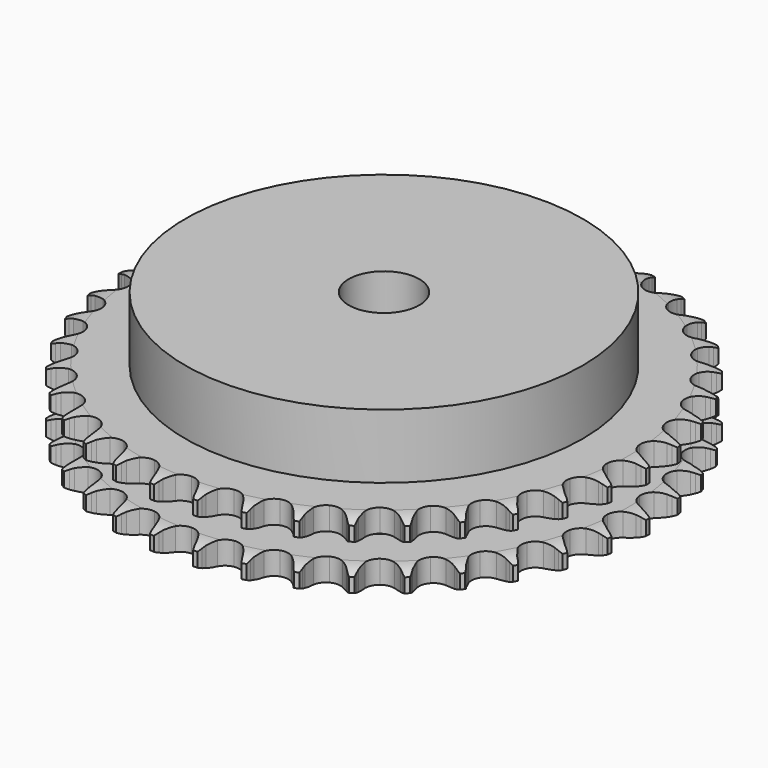
from build123d import *

# Parameters (mm, degrees)
PAD_DEPTH         = 15.4
SKETCH001_R       = 45
PAD001_DEPTH      = 30
SKETCH002_R       = 8
POCKET_DEPTH      = 0.001
POCKET_DEPTH_BACK = 30.001


with BuildPart() as part:
    # Sprocket → Pad (new body)
    with BuildSketch(Plane.XY):
        with BuildLine():
            ThreePointArc((-4.99856, 60.323644), (-4.441675, 59.555748), (-4.035521, 58.69853))
            Line((-4.035521, 58.69853), (-3.725843, 57.850122))
            ThreePointArc((-3.725843, 57.850122), (-3.235353, 56.757927), (-2.592985, 55.747564))
            ThreePointArc((-2.592985, 55.747564), (-1.45137, 54.787399), (0, 54.442831))
            ThreePointArc((0, 54.442831), (1.45137, 54.787399), (2.592985, 55.747564))
            ThreePointArc((2.592985, 55.747564), (3.235353, 56.757927), (3.725843, 57.850122))
            Line((3.725843, 57.850122), (4.035521, 58.69853))
            ThreePointArc((4.035521, 58.69853), (4.441675, 59.555748), (4.99856, 60.323644))
            ThreePointArc((4.99856, 60.323644), (5.421458, 59.474561), (5.680978, 58.562184))
            Line((5.680978, 58.562184), (5.846789, 57.674375))
            ThreePointArc((5.846789, 57.674375), (6.150821, 56.516344), (6.618128, 55.414031))
            ThreePointArc((6.618128, 55.414031), (7.586134, 54.279058), (8.960995, 53.700302))
            ThreePointArc((8.960995, 53.700302), (10.449284, 53.801282), (11.733367, 54.560448))
            Line((11.733367, 54.560448), (13.196845, 56.447868))
            ThreePointArc((13.196845, 56.447868), (13.408708, 56.846853), (13.641943, 57.233734))
            ThreePointArc((13.641943, 57.233734), (14.18365, 58.01241), (14.859331, 58.678172))
            ThreePointArc((14.859331, 58.678172), (15.136708, 57.771063), (15.242516, 56.828413))
            Line((15.242516, 56.828413), (15.259937, 55.925422))
            ThreePointArc((15.259937, 55.925422), (15.369216, 54.733143), (15.648715, 53.568948))
            ThreePointArc((15.648715, 53.568948), (16.416709, 52.290125), (17.677558, 51.492968))
            ThreePointArc((17.677558, 51.492968), (19.16217, 51.347607), (20.553694, 51.885066))
            Line((20.553694, 51.885066), (22.307871, 53.505863))
            ThreePointArc((22.307871, 53.505863), (22.582515, 53.864535), (22.876247, 54.20775))
            ThreePointArc((22.876247, 54.20775), (23.538732, 54.886644), (24.314779, 55.432112))
            ThreePointArc((24.314779, 55.432112), (24.439067, 54.491721), (24.388277, 53.544512))
            Line((24.388277, 53.544512), (24.256833, 52.650969))
            ThreePointArc((24.256833, 52.650969), (24.168379, 51.456965), (24.252445, 50.262643))
            ThreePointArc((24.252445, 50.262643), (24.799478, 48.874855), (25.911924, 47.881041))
            ThreePointArc((25.911924, 47.881041), (27.352361, 47.493304), (28.81337, 47.794394))
            Line((28.81337, 47.794394), (30.810396, 49.104358))
            ThreePointArc((30.810396, 49.104358), (31.14033, 49.412933), (31.486548, 49.70312))
            ThreePointArc((31.486548, 49.70312), (32.251739, 50.263714), (33.106983, 50.67401))
            ThreePointArc((33.106983, 50.67401), (33.074793, 49.725987), (32.86879, 48.800056))
            Line((32.86879, 48.800056), (32.592066, 47.940335))
            ThreePointArc((32.592066, 47.940335), (32.308292, 46.777174), (32.194633, 45.585305))
            ThreePointArc((32.194633, 45.585305), (32.505782, 44.126406), (33.439479, 42.963043))
            ThreePointArc((33.439479, 42.963043), (34.796452, 42.343506), (36.287092, 42.400016))
            Line((36.287092, 42.400016), (38.472494, 43.363414))
            ThreePointArc((38.472494, 43.363414), (38.848718, 43.613475), (39.237977, 43.842719))
            ThreePointArc((39.237977, 43.842719), (40.085003, 44.269721), (40.996115, 44.533652))
            ThreePointArc((40.996115, 44.533652), (40.808324, 43.603857), (40.452728, 42.724462))
            Line((40.452728, 42.724462), (40.038273, 41.922013))
            ThreePointArc((40.038273, 41.922013), (39.566919, 40.821424), (39.258635, 39.664518))
            ThreePointArc((39.258635, 39.664518), (39.325413, 38.174303), (40.054893, 36.873126))
            ThreePointArc((40.054893, 36.873126), (41.291385, 36.038688), (42.770996, 35.849077))
            Line((42.770996, 35.849077), (45.085163, 36.439629))
            ThreePointArc((45.085163, 36.439629), (45.497414, 36.624355), (45.919096, 36.786403))
            ThreePointArc((45.919096, 36.786403), (46.824852, 37.068165), (47.766979, 37.178532))
            ThreePointArc((47.766979, 37.178532), (47.428711, 36.292328), (46.933221, 35.483456))
            Line((46.933221, 35.483456), (46.39234, 34.760169))
            ThreePointArc((46.39234, 34.760169), (45.746263, 33.752173), (45.251763, 32.661787))
            ThreePointArc((45.251763, 32.661787), (45.07235, 31.180905), (45.577713, 29.777406))
            ThreePointArc((45.577713, 29.777406), (46.659998, 28.750829), (48.08822, 28.320267))
            Line((48.08822, 28.320267), (50.468026, 28.521866))
            ThreePointArc((50.468026, 28.521866), (50.90506, 28.636219), (51.347663, 28.72665))
            ThreePointArc((51.347663, 28.72665), (52.287442, 28.855486), (53.234885, 28.809279))
            ThreePointArc((53.234885, 28.809279), (52.755366, 27.990839), (52.133498, 27.274554))
            Line((52.133498, 27.274554), (51.480944, 26.650157))
            ThreePointArc((51.480944, 26.650157), (50.677769, 25.76225), (50.010542, 24.768127))
            ThreePointArc((50.010542, 24.768127), (49.58983, 23.336973), (49.857293, 21.869436))
            ThreePointArc((49.857293, 21.869436), (50.755847, 20.678722), (52.093722, 20.018955))
            Line((52.093722, 20.018955), (54.474253, 19.826101))
            ThreePointArc((54.474253, 19.826101), (54.924148, 19.86696), (55.375599, 19.883308))
            ThreePointArc((55.375599, 19.883308), (56.323766, 19.855705), (57.250682, 19.654184))
            ThreePointArc((57.250682, 19.654184), (56.642992, 18.925832), (55.911709, 18.321673))
            Line((55.911709, 18.321673), (55.165283, 17.813199))
            ThreePointArc((55.165283, 17.813199), (54.226917, 17.069599), (53.405163, 16.198858))
            ThreePointArc((53.405163, 16.198858), (52.754629, 14.85647), (52.776895, 13.364925))
            ThreePointArc((52.776895, 13.364925), (53.467209, 12.042553), (54.678243, 11.171578))
            Line((54.678243, 11.171578), (56.994564, 10.589532))
            ThreePointArc((56.994564, 10.589532), (57.445048, 10.555783), (57.893033, 10.497602))
            ThreePointArc((57.893033, 10.497602), (58.823725, 10.314311), (59.70483, 9.962974))
            ThreePointArc((59.70483, 9.962974), (58.985545, 9.344579), (58.164794, 8.869024))
            Line((58.164794, 8.869024), (57.344857, 8.490343))
            ThreePointArc((57.344857, 8.490343), (56.296896, 7.911335), (55.34303, 7.187726))
            ThreePointArc((55.34303, 7.187726), (54.480419, 5.97072), (54.256881, 4.495853))
            ThreePointArc((54.256881, 4.495853), (54.720125, 3.077895), (55.771284, 2.019469))
            Line((55.771284, 2.019469), (57.960212, 1.064108))
            ThreePointArc((57.960212, 1.064108), (58.398997, 0.956672), (58.831295, 0.825548))
            ThreePointArc((58.831295, 0.825548), (59.719126, 0.491571), (60.530385, 0))
            ThreePointArc((60.530385, 0), (59.719126, -0.491571), (58.831295, -0.825548))
            Line((58.831295, -0.825548), (57.960212, -1.064108))
            ThreePointArc((57.960212, -1.064108), (56.831243, -1.46273), (55.771284, -2.019469))
            ThreePointArc((55.771284, -2.019469), (54.720125, -3.077895), (54.256881, -4.495853))
            ThreePointArc((54.256881, -4.495853), (54.480419, -5.97072), (55.34303, -7.187726))
            Line((55.34303, -7.187726), (57.344857, -8.490343))
            ThreePointArc((57.344857, -8.490343), (57.759974, -8.668535), (58.164794, -8.869024))
            ThreePointArc((58.164794, -8.869024), (58.985545, -9.344579), (59.70483, -9.962974))
            ThreePointArc((59.70483, -9.962974), (58.823725, -10.314311), (57.893033, -10.497602))
            Line((57.893033, -10.497602), (56.994564, -10.589532))
            ThreePointArc((56.994564, -10.589532), (55.815381, -10.796895), (54.678243, -11.171578))
            ThreePointArc((54.678243, -11.171578), (53.467209, -12.042553), (52.776895, -13.364925))
            ThreePointArc((52.776895, -13.364925), (52.754629, -14.85647), (53.405163, -16.198858))
            Line((53.405163, -16.198858), (55.165283, -17.813199))
            ThreePointArc((55.165283, -17.813199), (55.54541, -18.057287), (55.911709, -18.321673))
            ThreePointArc((55.911709, -18.321673), (56.642992, -18.925832), (57.250682, -19.654184))
            ThreePointArc((57.250682, -19.654184), (56.323766, -19.855705), (55.375599, -19.883308))
            Line((55.375599, -19.883308), (54.474253, -19.826101))
            ThreePointArc((54.474253, -19.826101), (53.277022, -19.836549), (52.093722, -20.018955))
            ThreePointArc((52.093722, -20.018955), (50.755847, -20.678722), (49.857293, -21.869436))
            ThreePointArc((49.857293, -21.869436), (49.58983, -23.336973), (50.010542, -24.768127))
            Line((50.010542, -24.768127), (51.480944, -26.650157))
            ThreePointArc((51.480944, -26.650157), (51.815711, -26.953483), (52.133498, -27.274554))
            ThreePointArc((52.133498, -27.274554), (52.755366, -27.990839), (53.234885, -28.809279))
            ThreePointArc((53.234885, -28.809279), (52.287442, -28.855486), (51.347663, -28.72665))
            Line((51.347663, -28.72665), (50.468026, -28.521866))
            ThreePointArc((50.468026, -28.521866), (49.285404, -28.335114), (48.08822, -28.320267))
            ThreePointArc((48.08822, -28.320267), (46.659998, -28.750829), (45.577713, -29.777406))
            ThreePointArc((45.577713, -29.777406), (45.07235, -31.180905), (45.251763, -32.661787))
            Line((45.251763, -32.661787), (46.39234, -34.760169))
            ThreePointArc((46.39234, -34.760169), (46.672615, -35.114458), (46.933221, -35.483456))
            ThreePointArc((46.933221, -35.483456), (47.428711, -36.292328), (47.766979, -37.178532))
            ThreePointArc((47.766979, -37.178532), (46.824852, -37.068165), (45.919096, -36.786403))
            Line((45.919096, -36.786403), (45.085163, -36.439629))
            ThreePointArc((45.085163, -36.439629), (43.949409, -36.060771), (42.770996, -35.849077))
            ThreePointArc((42.770996, -35.849077), (41.291385, -36.038688), (40.054893, -36.873126))
            ThreePointArc((40.054893, -36.873126), (39.325413, -38.174303), (39.258635, -39.664518))
            Line((39.258635, -39.664518), (40.038273, -41.922013))
            ThreePointArc((40.038273, -41.922013), (40.256411, -42.317602), (40.452728, -42.724462))
            ThreePointArc((40.452728, -42.724462), (40.808324, -43.603857), (40.996115, -44.533652))
            ThreePointArc((40.996115, -44.533652), (40.085003, -44.269721), (39.237977, -43.842719))
            Line((39.237977, -43.842719), (38.472494, -43.363414))
            ThreePointArc((38.472494, -43.363414), (37.414588, -42.802784), (36.287092, -42.400016))
            ThreePointArc((36.287092, -42.400016), (34.796452, -42.343506), (33.439479, -42.963043))
            ThreePointArc((33.439479, -42.963043), (32.505782, -44.126406), (32.194633, -45.585305))
            Line((32.194633, -45.585305), (32.592066, -47.940335))
            ThreePointArc((32.592066, -47.940335), (32.742118, -48.366433), (32.86879, -48.800056))
            ThreePointArc((32.86879, -48.800056), (33.074793, -49.725987), (33.106983, -50.67401))
            ThreePointArc((33.106983, -50.67401), (32.251739, -50.263714), (31.486548, -49.70312))
            Line((31.486548, -49.70312), (30.810396, -49.104358))
            ThreePointArc((30.810396, -49.104358), (29.859195, -48.377249), (28.81337, -47.794394))
            ThreePointArc((28.81337, -47.794394), (27.352361, -47.493304), (25.911924, -47.881041))
            ThreePointArc((25.911924, -47.881041), (24.799478, -48.874855), (24.252445, -50.262643))
            Line((24.252445, -50.262643), (24.256833, -52.650969))
            ThreePointArc((24.256833, -52.650969), (24.334705, -53.095953), (24.388277, -53.544512))
            ThreePointArc((24.388277, -53.544512), (24.439067, -54.491721), (24.314779, -55.432112))
            ThreePointArc((24.314779, -55.432112), (23.538732, -54.886644), (22.876247, -54.20775))
            Line((22.876247, -54.20775), (22.307871, -53.505863))
            ThreePointArc((22.307871, -53.505863), (21.489321, -52.632108), (20.553694, -51.885066))
            ThreePointArc((20.553694, -51.885066), (19.16217, -51.347607), (17.677558, -51.492968))
            ThreePointArc((17.677558, -51.492968), (16.416709, -52.290125), (15.648715, -53.568948))
            Line((15.648715, -53.568948), (15.259937, -55.925422))
            ThreePointArc((15.259937, -55.925422), (15.263504, -56.377155), (15.242516, -56.828413))
            ThreePointArc((15.242516, -56.828413), (15.136708, -57.771063), (14.859331, -58.678172))
            ThreePointArc((14.859331, -58.678172), (14.18365, -58.01241), (13.641943, -57.233734))
            Line((13.641943, -57.233734), (13.196845, -56.447868))
            ThreePointArc((13.196845, -56.447868), (12.533275, -55.451301), (11.733367, -54.560448))
            ThreePointArc((11.733367, -54.560448), (10.449284, -53.801282), (8.960995, -53.700302))
            ThreePointArc((8.960995, -53.700302), (7.586134, -54.279058), (6.618128, -55.414031))
            Line((6.618128, -55.414031), (5.846789, -57.674375))
            ThreePointArc((5.846789, -57.674375), (5.775956, -58.120534), (5.680978, -58.562184))
            ThreePointArc((5.680978, -58.562184), (5.421458, -59.474561), (4.99856, -60.323644))
            ThreePointArc((4.99856, -60.323644), (4.441675, -59.555748), (4.035521, -58.69853))
            Line((4.035521, -58.69853), (3.725843, -57.850122))
            ThreePointArc((3.725843, -57.850122), (3.235353, -56.757927), (2.592985, -55.747564))
            ThreePointArc((2.592985, -55.747564), (1.45137, -54.787399), (0, -54.442831))
            ThreePointArc((0, -54.442831), (-1.45137, -54.787399), (-2.592985, -55.747564))
            Line((-2.592985, -55.747564), (-3.725843, -57.850122))
            ThreePointArc((-3.725843, -57.850122), (-3.869146, -58.278537), (-4.035521, -58.69853))
            ThreePointArc((-4.035521, -58.69853), (-4.441675, -59.555748), (-4.99856, -60.323644))
            ThreePointArc((-4.99856, -60.323644), (-5.421458, -59.474561), (-5.680978, -58.562184))
            Line((-5.680978, -58.562184), (-5.846789, -57.674375))
            ThreePointArc((-5.846789, -57.674375), (-6.150821, -56.516344), (-6.618128, -55.414031))
            ThreePointArc((-6.618128, -55.414031), (-7.586134, -54.279058), (-8.960995, -53.700302))
            ThreePointArc((-8.960995, -53.700302), (-10.449284, -53.801282), (-11.733367, -54.560448))
            Line((-11.733367, -54.560448), (-13.196845, -56.447868))
            ThreePointArc((-13.196845, -56.447868), (-13.408708, -56.846853), (-13.641943, -57.233734))
            ThreePointArc((-13.641943, -57.233734), (-14.18365, -58.01241), (-14.859331, -58.678172))
            ThreePointArc((-14.859331, -58.678172), (-15.136708, -57.771063), (-15.242516, -56.828413))
            Line((-15.242516, -56.828413), (-15.259937, -55.925422))
            ThreePointArc((-15.259937, -55.925422), (-15.369216, -54.733143), (-15.648715, -53.568948))
            ThreePointArc((-15.648715, -53.568948), (-16.416709, -52.290125), (-17.677558, -51.492968))
            ThreePointArc((-17.677558, -51.492968), (-19.16217, -51.347607), (-20.553694, -51.885066))
            Line((-20.553694, -51.885066), (-22.307871, -53.505863))
            ThreePointArc((-22.307871, -53.505863), (-22.582515, -53.864535), (-22.876247, -54.20775))
            ThreePointArc((-22.876247, -54.20775), (-23.538732, -54.886644), (-24.314779, -55.432112))
            ThreePointArc((-24.314779, -55.432112), (-24.439067, -54.491721), (-24.388277, -53.544512))
            Line((-24.388277, -53.544512), (-24.256833, -52.650969))
            ThreePointArc((-24.256833, -52.650969), (-24.168379, -51.456965), (-24.252445, -50.262643))
            ThreePointArc((-24.252445, -50.262643), (-24.799478, -48.874855), (-25.911924, -47.881041))
            ThreePointArc((-25.911924, -47.881041), (-27.352361, -47.493304), (-28.81337, -47.794394))
            Line((-28.81337, -47.794394), (-30.810396, -49.104358))
            ThreePointArc((-30.810396, -49.104358), (-31.14033, -49.412933), (-31.486548, -49.70312))
            ThreePointArc((-31.486548, -49.70312), (-32.251739, -50.263714), (-33.106983, -50.67401))
            ThreePointArc((-33.106983, -50.67401), (-33.074793, -49.725987), (-32.86879, -48.800056))
            Line((-32.86879, -48.800056), (-32.592066, -47.940335))
            ThreePointArc((-32.592066, -47.940335), (-32.308292, -46.777174), (-32.194633, -45.585305))
            ThreePointArc((-32.194633, -45.585305), (-32.505782, -44.126406), (-33.439479, -42.963043))
            ThreePointArc((-33.439479, -42.963043), (-34.796452, -42.343506), (-36.287092, -42.400016))
            Line((-36.287092, -42.400016), (-38.472494, -43.363414))
            ThreePointArc((-38.472494, -43.363414), (-38.848718, -43.613475), (-39.237977, -43.842719))
            ThreePointArc((-39.237977, -43.842719), (-40.085003, -44.269721), (-40.996115, -44.533652))
            ThreePointArc((-40.996115, -44.533652), (-40.808324, -43.603857), (-40.452728, -42.724462))
            Line((-40.452728, -42.724462), (-40.038273, -41.922013))
            ThreePointArc((-40.038273, -41.922013), (-39.566919, -40.821424), (-39.258635, -39.664518))
            ThreePointArc((-39.258635, -39.664518), (-39.325413, -38.174303), (-40.054893, -36.873126))
            ThreePointArc((-40.054893, -36.873126), (-41.291385, -36.038688), (-42.770996, -35.849077))
            Line((-42.770996, -35.849077), (-45.085163, -36.439629))
            ThreePointArc((-45.085163, -36.439629), (-45.497414, -36.624355), (-45.919096, -36.786403))
            ThreePointArc((-45.919096, -36.786403), (-46.824852, -37.068165), (-47.766979, -37.178532))
            ThreePointArc((-47.766979, -37.178532), (-47.428711, -36.292328), (-46.933221, -35.483456))
            Line((-46.933221, -35.483456), (-46.39234, -34.760169))
            ThreePointArc((-46.39234, -34.760169), (-45.746263, -33.752173), (-45.251763, -32.661787))
            ThreePointArc((-45.251763, -32.661787), (-45.07235, -31.180905), (-45.577713, -29.777406))
            ThreePointArc((-45.577713, -29.777406), (-46.659998, -28.750829), (-48.08822, -28.320267))
            Line((-48.08822, -28.320267), (-50.468026, -28.521866))
            ThreePointArc((-50.468026, -28.521866), (-50.90506, -28.636219), (-51.347663, -28.72665))
            ThreePointArc((-51.347663, -28.72665), (-52.287442, -28.855486), (-53.234885, -28.809279))
            ThreePointArc((-53.234885, -28.809279), (-52.755366, -27.990839), (-52.133498, -27.274554))
            Line((-52.133498, -27.274554), (-51.480944, -26.650157))
            ThreePointArc((-51.480944, -26.650157), (-50.677769, -25.76225), (-50.010542, -24.768127))
            ThreePointArc((-50.010542, -24.768127), (-49.58983, -23.336973), (-49.857293, -21.869436))
            ThreePointArc((-49.857293, -21.869436), (-50.755847, -20.678722), (-52.093722, -20.018955))
            Line((-52.093722, -20.018955), (-54.474253, -19.826101))
            ThreePointArc((-54.474253, -19.826101), (-54.924148, -19.86696), (-55.375599, -19.883308))
            ThreePointArc((-55.375599, -19.883308), (-56.323766, -19.855705), (-57.250682, -19.654184))
            ThreePointArc((-57.250682, -19.654184), (-56.642992, -18.925832), (-55.911709, -18.321673))
            Line((-55.911709, -18.321673), (-55.165283, -17.813199))
            ThreePointArc((-55.165283, -17.813199), (-54.226917, -17.069599), (-53.405163, -16.198858))
            ThreePointArc((-53.405163, -16.198858), (-52.754629, -14.85647), (-52.776895, -13.364925))
            ThreePointArc((-52.776895, -13.364925), (-53.467209, -12.042553), (-54.678243, -11.171578))
            Line((-54.678243, -11.171578), (-56.994564, -10.589532))
            ThreePointArc((-56.994564, -10.589532), (-57.445048, -10.555783), (-57.893033, -10.497602))
            ThreePointArc((-57.893033, -10.497602), (-58.823725, -10.314311), (-59.70483, -9.962974))
            ThreePointArc((-59.70483, -9.962974), (-58.985545, -9.344579), (-58.164794, -8.869024))
            Line((-58.164794, -8.869024), (-57.344857, -8.490343))
            ThreePointArc((-57.344857, -8.490343), (-56.296896, -7.911335), (-55.34303, -7.187726))
            ThreePointArc((-55.34303, -7.187726), (-54.480419, -5.97072), (-54.256881, -4.495853))
            ThreePointArc((-54.256881, -4.495853), (-54.720125, -3.077895), (-55.771284, -2.019469))
            Line((-55.771284, -2.019469), (-57.960212, -1.064108))
            ThreePointArc((-57.960212, -1.064108), (-58.398997, -0.956672), (-58.831295, -0.825548))
            ThreePointArc((-58.831295, -0.825548), (-59.719126, -0.491571), (-60.530385, 0))
            ThreePointArc((-60.530385, 0), (-59.719126, 0.491571), (-58.831295, 0.825548))
            Line((-58.831295, 0.825548), (-57.960212, 1.064108))
            ThreePointArc((-57.960212, 1.064108), (-56.831243, 1.46273), (-55.771284, 2.019469))
            ThreePointArc((-55.771284, 2.019469), (-54.720125, 3.077895), (-54.256881, 4.495853))
            ThreePointArc((-54.256881, 4.495853), (-54.480419, 5.97072), (-55.34303, 7.187726))
            Line((-55.34303, 7.187726), (-57.344857, 8.490343))
            ThreePointArc((-57.344857, 8.490343), (-57.759974, 8.668535), (-58.164794, 8.869024))
            ThreePointArc((-58.164794, 8.869024), (-58.985545, 9.344579), (-59.70483, 9.962974))
            ThreePointArc((-59.70483, 9.962974), (-58.823725, 10.314311), (-57.893033, 10.497602))
            Line((-57.893033, 10.497602), (-56.994564, 10.589532))
            ThreePointArc((-56.994564, 10.589532), (-55.815381, 10.796895), (-54.678243, 11.171578))
            ThreePointArc((-54.678243, 11.171578), (-53.467209, 12.042553), (-52.776895, 13.364925))
            ThreePointArc((-52.776895, 13.364925), (-52.754629, 14.85647), (-53.405163, 16.198858))
            Line((-53.405163, 16.198858), (-55.165283, 17.813199))
            ThreePointArc((-55.165283, 17.813199), (-55.54541, 18.057287), (-55.911709, 18.321673))
            ThreePointArc((-55.911709, 18.321673), (-56.642992, 18.925832), (-57.250682, 19.654184))
            ThreePointArc((-57.250682, 19.654184), (-56.323766, 19.855705), (-55.375599, 19.883308))
            Line((-55.375599, 19.883308), (-54.474253, 19.826101))
            ThreePointArc((-54.474253, 19.826101), (-53.277022, 19.836549), (-52.093722, 20.018955))
            ThreePointArc((-52.093722, 20.018955), (-50.755847, 20.678722), (-49.857293, 21.869436))
            ThreePointArc((-49.857293, 21.869436), (-49.58983, 23.336973), (-50.010542, 24.768127))
            Line((-50.010542, 24.768127), (-51.480944, 26.650157))
            ThreePointArc((-51.480944, 26.650157), (-51.815711, 26.953483), (-52.133498, 27.274554))
            ThreePointArc((-52.133498, 27.274554), (-52.755366, 27.990839), (-53.234885, 28.809279))
            ThreePointArc((-53.234885, 28.809279), (-52.287442, 28.855486), (-51.347663, 28.72665))
            Line((-51.347663, 28.72665), (-50.468026, 28.521866))
            ThreePointArc((-50.468026, 28.521866), (-49.285404, 28.335114), (-48.08822, 28.320267))
            ThreePointArc((-48.08822, 28.320267), (-46.659998, 28.750829), (-45.577713, 29.777406))
            ThreePointArc((-45.577713, 29.777406), (-45.07235, 31.180905), (-45.251763, 32.661787))
            Line((-45.251763, 32.661787), (-46.39234, 34.760169))
            ThreePointArc((-46.39234, 34.760169), (-46.672615, 35.114458), (-46.933221, 35.483456))
            ThreePointArc((-46.933221, 35.483456), (-47.428711, 36.292328), (-47.766979, 37.178532))
            ThreePointArc((-47.766979, 37.178532), (-46.824852, 37.068165), (-45.919096, 36.786403))
            Line((-45.919096, 36.786403), (-45.085163, 36.439629))
            ThreePointArc((-45.085163, 36.439629), (-43.949409, 36.060771), (-42.770996, 35.849077))
            ThreePointArc((-42.770996, 35.849077), (-41.291385, 36.038688), (-40.054893, 36.873126))
            ThreePointArc((-40.054893, 36.873126), (-39.325413, 38.174303), (-39.258635, 39.664518))
            Line((-39.258635, 39.664518), (-40.038273, 41.922013))
            ThreePointArc((-40.038273, 41.922013), (-40.256411, 42.317602), (-40.452728, 42.724462))
            ThreePointArc((-40.452728, 42.724462), (-40.808324, 43.603857), (-40.996115, 44.533652))
            ThreePointArc((-40.996115, 44.533652), (-40.085003, 44.269721), (-39.237977, 43.842719))
            Line((-39.237977, 43.842719), (-38.472494, 43.363414))
            ThreePointArc((-38.472494, 43.363414), (-37.414588, 42.802784), (-36.287092, 42.400016))
            ThreePointArc((-36.287092, 42.400016), (-34.796452, 42.343506), (-33.439479, 42.963043))
            ThreePointArc((-33.439479, 42.963043), (-32.505782, 44.126406), (-32.194633, 45.585305))
            Line((-32.194633, 45.585305), (-32.592066, 47.940335))
            ThreePointArc((-32.592066, 47.940335), (-32.742118, 48.366433), (-32.86879, 48.800056))
            ThreePointArc((-32.86879, 48.800056), (-33.074793, 49.725987), (-33.106983, 50.67401))
            ThreePointArc((-33.106983, 50.67401), (-32.251739, 50.263714), (-31.486548, 49.70312))
            Line((-31.486548, 49.70312), (-30.810396, 49.104358))
            ThreePointArc((-30.810396, 49.104358), (-29.859195, 48.377249), (-28.81337, 47.794394))
            ThreePointArc((-28.81337, 47.794394), (-27.352361, 47.493304), (-25.911924, 47.881041))
            ThreePointArc((-25.911924, 47.881041), (-24.799478, 48.874855), (-24.252445, 50.262643))
            Line((-24.252445, 50.262643), (-24.256833, 52.650969))
            ThreePointArc((-24.256833, 52.650969), (-24.334705, 53.095953), (-24.388277, 53.544512))
            ThreePointArc((-24.388277, 53.544512), (-24.439067, 54.491721), (-24.314779, 55.432112))
            ThreePointArc((-24.314779, 55.432112), (-23.538732, 54.886644), (-22.876247, 54.20775))
            Line((-22.876247, 54.20775), (-22.307871, 53.505863))
            ThreePointArc((-22.307871, 53.505863), (-21.489321, 52.632108), (-20.553694, 51.885066))
            ThreePointArc((-20.553694, 51.885066), (-19.16217, 51.347607), (-17.677558, 51.492968))
            ThreePointArc((-17.677558, 51.492968), (-16.416709, 52.290125), (-15.648715, 53.568948))
            Line((-15.648715, 53.568948), (-15.259937, 55.925422))
            ThreePointArc((-15.259937, 55.925422), (-15.263504, 56.377155), (-15.242516, 56.828413))
            ThreePointArc((-15.242516, 56.828413), (-15.136708, 57.771063), (-14.859331, 58.678172))
            ThreePointArc((-14.859331, 58.678172), (-14.18365, 58.01241), (-13.641943, 57.233734))
            Line((-13.641943, 57.233734), (-13.196845, 56.447868))
            ThreePointArc((-13.196845, 56.447868), (-12.533275, 55.451301), (-11.733367, 54.560448))
            ThreePointArc((-11.733367, 54.560448), (-10.449284, 53.801282), (-8.960995, 53.700302))
            ThreePointArc((-8.960995, 53.700302), (-7.586134, 54.279058), (-6.618128, 55.414031))
            Line((-6.618128, 55.414031), (-5.846789, 57.674375))
            ThreePointArc((-5.846789, 57.674375), (-5.775956, 58.120534), (-5.680978, 58.562184))
            ThreePointArc((-5.680978, 58.562184), (-5.421458, 59.474561), (-4.99856, 60.323644))
        make_face()
    extrude(amount=PAD_DEPTH)

    # Sketch → Groove (revolve, cut)
    with BuildSketch(Plane.XZ):
        with BuildLine():
            ThreePointArc((55.391101, 0), (57.627169, 0.253206), (59.75, 1))
            Line((59.75, 1), (59.75, 4.2))
            ThreePointArc((59.75, 4.2), (57.627169, 4.946794), (55.391101, 5.2))
            Line((45, 5.2), (55.391101, 5.2))
            Line((45, 10.2), (45, 5.2))
            Line((55.391101, 10.2), (45, 10.2))
            ThreePointArc((55.391101, 10.2), (57.627169, 10.453206), (59.75, 11.2))
            Line((59.75, 11.2), (59.75, 14.4))
            ThreePointArc((59.75, 14.4), (57.627169, 15.146794), (55.391101, 15.4))
            Line((55.391101, 15.4), (65.391101, 15.4))
            Line((65.391101, 15.4), (65.391101, 0))
            Line((55.391101, 0), (65.391101, 0))
        make_face()
    revolve(axis=Axis((0, 0, 0), (0, 0, 1)), mode=Mode.SUBTRACT)

    # Sketch001 → Pad001 (join)
    with BuildSketch(Plane.XY):
        Circle(SKETCH001_R)
    extrude(amount=PAD001_DEPTH)

    # Sketch002 → Pocket (cut, two sides)
    with BuildSketch(Plane.XY) as pocket_sk:
        Circle(SKETCH002_R)
    extrude(amount=-POCKET_DEPTH, mode=Mode.SUBTRACT)
    extrude(pocket_sk.sketch, amount=POCKET_DEPTH_BACK, mode=Mode.SUBTRACT)


solid = part.part
